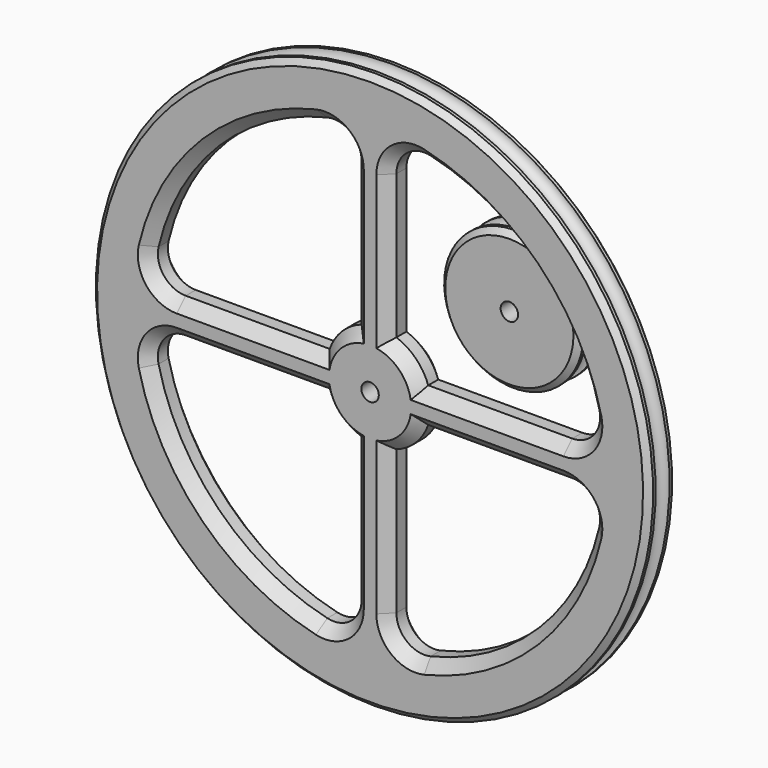
from build123d import *

# Parameters (mm, degrees)
F2_SIZE   = 1.016
F2_2_SIZE = 1.016
F4_DEPTH  = 25.4
F5_R      = 5.08
F6_SIZE   = 2.032


with BuildPart() as f1:
    # F0 (on Right) → F1 (revolve)
    with BuildSketch(Plane.YZ):
        with BuildLine():
            Line((12.7, 1.5875), (19.05, 1.5875))
            Line((19.05, 1.5875), (19.05, 12.7))
            Line((19.05, 12.7), (17.4625, 12.7))
            ThreePointArc((17.4625, 12.7), (15.875, 11.1125), (14.2875, 12.7))
            Line((14.2875, 12.7), (12.7, 12.7))
            Line((12.7, 12.7), (12.7, 1.5875))
        make_face()
    revolve(axis=Axis((0, 16.8133024126, 0), (0, 1, 0)))

    # F2
    f2_edges = [f1.edges().sort_by_distance(p)[0] for p in [
        (0, 19.05, -12.7),
        (0, 12.7, -12.7),
    ]]
    chamfer(f2_edges, length=F2_SIZE)


with BuildPart() as f1b:
    # F0 (on Right) → F1, piece 2 (revolve)
    with BuildSketch(Plane.YZ):
        with BuildLine():
            Line((-19.05, 1.5875), (-12.7, 1.5875))
            Line((-12.7, 1.5875), (-12.7, 50.8))
            Line((-12.7, 50.8), (-14.2875, 50.8))
            ThreePointArc((-14.2875, 50.8), (-15.875, 49.2125), (-17.4625, 50.8))
            Line((-17.4625, 50.8), (-19.05, 50.8))
            Line((-19.05, 50.8), (-19.05, 1.5875))
        make_face()
    revolve(axis=Axis((0, 16.8133024126, 0), (0, 1, 0)))

    # F2#2
    f2_2_edges = [f1b.edges().sort_by_distance(p)[0] for p in [
        (0, -12.7, -50.8),
        (0, -19.05, -50.8),
    ]]
    chamfer(f2_2_edges, length=F2_2_SIZE)

    # F3 (on face) → F4 (cut)
    with BuildSketch(Plane.XZ.offset(19.05)):
        with BuildLine():
            ThreePointArc((-8.9802561211, 3.175), (-6.7351920908, 6.7351920908), (-3.175, 8.9802561211))
            Line((-3.175, 8.9802561211), (-3.175, 41.1527034349))
            ThreePointArc((-3.175, 41.1527034349), (-29.1858323935, 29.1858323935), (-41.1527034349, 3.175))
            Line((-41.1527034349, 3.175), (-8.9802561211, 3.175))
        make_face()
        with BuildLine():
            ThreePointArc((41.1527034349, 3.175), (29.1858323935, 29.1858323935), (3.175, 41.1527034349))
            Line((3.175, 41.1527034349), (3.175, 8.9802561211))
            ThreePointArc((3.175, 8.9802561211), (6.7351920908, 6.7351920908), (8.9802561211, 3.175))
            Line((8.9802561211, 3.175), (41.1527034349, 3.175))
        make_face()
        with BuildLine():
            Line((41.1527034349, -3.175), (8.9802561211, -3.175))
            ThreePointArc((8.9802561211, -3.175), (6.7351920908, -6.7351920908), (3.175, -8.9802561211))
            Line((3.175, -8.9802561211), (3.175, -41.1527034349))
            ThreePointArc((3.175, -41.1527034349), (29.1858323935, -29.1858323935), (41.1527034349, -3.175))
        make_face()
        with BuildLine():
            Line((-3.175, -41.1527034349), (-3.175, -8.9802561211))
            ThreePointArc((-3.175, -8.9802561211), (-6.7351920908, -6.7351920908), (-8.9802561211, -3.175))
            Line((-8.9802561211, -3.175), (-41.1527034349, -3.175))
            ThreePointArc((-41.1527034349, -3.175), (-29.1858323935, -29.1858323935), (-3.175, -41.1527034349))
        make_face()
    extrude(amount=-F4_DEPTH, mode=Mode.SUBTRACT)

    # F5
    f5_edges = [f1b.edges().sort_by_distance(p)[0] for p in [
        (-3.175, -15.875, 41.152703),
        (3.175, -15.875, 41.152703),
        (41.152703, -15.875, 3.175),
        (41.152703, -15.875, -3.175),
        (3.175, -15.875, -41.152703),
        (-3.175, -15.875, -41.152703),
        (-41.152703, -15.875, -3.175),
        (-41.152703, -15.875, 3.175),
    ]]
    fillet(f5_edges, radius=F5_R)

    # F6
    f6_edges = [f1b.edges().sort_by_distance(p)[0] for p in [
        (-22.110663, -19.05, -3.175),
        (-29.185832, -19.05, 29.185832),
        (29.185832, -19.05, 29.185832),
        (29.185832, -19.05, -29.185832),
        (22.110663, -12.7, -3.175),
        (22.110663, -12.7, 3.175),
        (-29.185832, -12.7, 29.185832),
        (-22.110663, -12.7, -3.175),
        (-6.735192, -12.7, 6.735192),
        (6.735192, -12.7, 6.735192),
        (6.735192, -12.7, -6.735192),
        (-6.735192, -12.7, -6.735192),
        (6.735192, -19.05, 6.735192),
        (-6.735192, -19.05, 6.735192),
        (-6.735192, -19.05, -6.735192),
        (6.735192, -19.05, -6.735192),
    ]]
    chamfer(f6_edges, length=F6_SIZE)


solid = Compound([f1.part, f1b.part])
